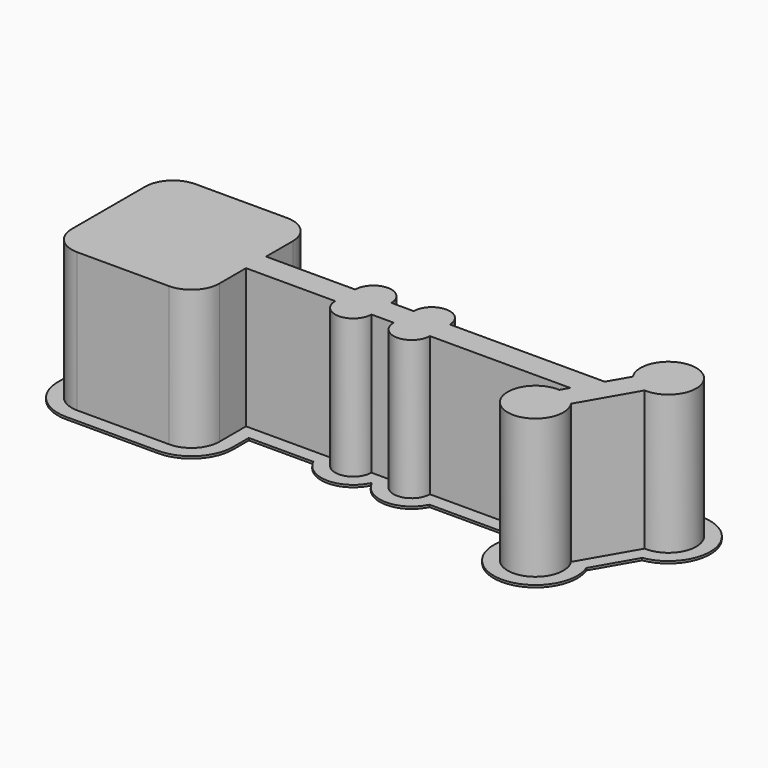
from build123d import *

# Parameters (mm, degrees)
F1_DEPTH = 0.4
F3_DEPTH = 25


with BuildPart() as f1:
    # F0 (on Top) → F1 (new body)
    with BuildSketch(Plane.XY):
        with BuildLine():
            Line((27.3219212057, 4.75), (15.75, 4.75))
            Line((15.75, 4.75), (15.75, 8.25))
            ThreePointArc((15.75, 8.25), (13.5533008589, 13.5533008589), (8.25, 15.75))
            Line((8.25, 15.75), (-8.25, 15.75))
            ThreePointArc((-8.25, 15.75), (-13.5533008589, 13.5533008589), (-15.75, 8.25))
            Line((-15.75, 8.25), (-15.75, -8.25))
            ThreePointArc((-15.75, -8.25), (-13.5533008589, -13.5533008589), (-8.25, -15.75))
            Line((-8.25, -15.75), (8.25, -15.75))
            ThreePointArc((8.25, -15.75), (13.5533008589, -13.5533008589), (15.75, -8.25))
            Line((15.75, -8.25), (15.75, -4.75))
            Line((15.75, -4.75), (27.3219212057, -4.75))
            ThreePointArc((27.3219212057, -4.75), (32.5, -8), (37.6780787943, -4.75))
            Line((37.6780787943, -4.75), (37.75, -4.75))
            Line((37.75, -4.75), (37.8219212057, -4.75))
            ThreePointArc((37.8219212057, -4.75), (43, -8), (48.1780787943, -4.75))
            Line((48.1780787943, -4.75), (63.9480829801, -4.75))
            ThreePointArc((63.9480829801, -4.75), (69.6474451199, -16.1274567319), (77.3637435709, -6.0087617221))
            Line((77.3637435709, -6.0087617221), (81.5596501878, 1.2587617221))
            ThreePointArc((81.5596501878, 1.2587617221), (84.0980762114, 15.1554445662), (73.3324088518, 6.0087617221))
            Line((73.3324088518, 6.0087617221), (72.6056624327, 4.75))
            Line((72.6056624327, 4.75), (48.1780787943, 4.75))
            ThreePointArc((48.1780787943, 4.75), (43, 8), (37.8219212057, 4.75))
            Line((37.8219212057, 4.75), (37.75, 4.75))
            Line((37.75, 4.75), (37.6780787943, 4.75))
            ThreePointArc((37.6780787943, 4.75), (32.5, 8), (27.3219212057, 4.75))
        make_face()
        with BuildLine():
            ThreePointArc((13.25, -8.25), (11.7855339059, -11.7855339059), (8.25, -13.25))
            Line((8.25, -13.25), (4.5, -13.25))
            Line((4.5, -13.25), (-4.5, -13.25))
            Line((-4.5, -13.25), (-8.25, -13.25))
            ThreePointArc((-8.25, -13.25), (-11.7855339059, -11.7855339059), (-13.25, -8.25))
            Line((-13.25, -8.25), (-13.25, -4.5))
            Line((-13.25, -4.5), (-13.25, 4.5))
            Line((-13.25, 4.5), (-13.25, 8.25))
            ThreePointArc((-13.25, 8.25), (-11.7855339059, 11.7855339059), (-8.25, 13.25))
            Line((-8.25, 13.25), (-4.5, 13.25))
            Line((-4.5, 13.25), (4.5, 13.25))
            Line((4.5, 13.25), (8.25, 13.25))
            ThreePointArc((8.25, 13.25), (11.7855339059, 11.7855339059), (13.25, 8.25))
            Line((13.25, 8.25), (13.25, 4.5))
            Line((13.25, 4.5), (13.25, 2.25))
            Line((13.25, 2.25), (29.25, 2.25))
            ThreePointArc((29.25, 2.25), (32.5, 5.5), (35.75, 2.25))
            Line((35.75, 2.25), (37.75, 2.25))
            Line((37.75, 2.25), (39.75, 2.25))
            ThreePointArc((39.75, 2.25), (43, 5.5), (46.25, 2.25))
            Line((46.25, 2.25), (74.0490381057, 2.25))
            Line((74.0490381057, 2.25), (76.1669476654, 5.9183269633))
            ThreePointArc((76.1669476654, 5.9183269633), (82.8480762114, 12.9903810568), (80.0640619824, 3.6683269633))
            Line((80.0640619824, 3.6683269633), (74.5292047573, -5.9183269633))
            ThreePointArc((74.5292047573, -5.9183269633), (67.8480762114, -12.9903810568), (70.6320904403, -3.6683269633))
            Line((70.6320904403, -3.6683269633), (71.4509618943, -2.25))
            Line((71.4509618943, -2.25), (46.25, -2.25))
            ThreePointArc((46.25, -2.25), (43, -5.5), (39.75, -2.25))
            Line((39.75, -2.25), (37.75, -2.25))
            Line((37.75, -2.25), (35.75, -2.25))
            ThreePointArc((35.75, -2.25), (32.5, -5.5), (29.25, -2.25))
            Line((29.25, -2.25), (13.25, -2.25))
            Line((13.25, -2.25), (13.25, -4.5))
            Line((13.25, -4.5), (13.25, -8.25))
        make_face(mode=Mode.SUBTRACT)
    extrude(amount=F1_DEPTH)


with BuildPart() as f3:
    # F2 (on face) → F3 (new body)
    with BuildSketch(Plane.XY.offset(0.4)):
        with BuildLine():
            ThreePointArc((8.25, -13.25), (11.7855339059, -11.7855339059), (13.25, -8.25))
            Line((13.25, -8.25), (13.25, -2.25))
            Line((13.25, -2.25), (29.25, -2.25))
            ThreePointArc((29.25, -2.25), (32.5, -5.5), (35.75, -2.25))
            Line((35.75, -2.25), (39.75, -2.25))
            ThreePointArc((39.75, -2.25), (43, -5.5), (46.25, -2.25))
            Line((46.25, -2.25), (71.4509618943, -2.25))
            Line((71.4509618943, -2.25), (70.6320904403, -3.6683269633))
            ThreePointArc((70.6320904403, -3.6683269633), (67.8480762114, -12.9903810568), (74.5292047573, -5.9183269633))
            Line((74.5292047573, -5.9183269633), (80.0640619824, 3.6683269633))
            ThreePointArc((80.0640619824, 3.6683269633), (82.8480762114, 12.9903810568), (76.1669476654, 5.9183269633))
            Line((76.1669476654, 5.9183269633), (74.0490381057, 2.25))
            Line((74.0490381057, 2.25), (46.25, 2.25))
            ThreePointArc((46.25, 2.25), (43, 5.5), (39.75, 2.25))
            Line((39.75, 2.25), (35.75, 2.25))
            ThreePointArc((35.75, 2.25), (32.5, 5.5), (29.25, 2.25))
            Line((29.25, 2.25), (13.25, 2.25))
            Line((13.25, 2.25), (13.25, 8.25))
            ThreePointArc((13.25, 8.25), (11.7855339059, 11.7855339059), (8.25, 13.25))
            Line((8.25, 13.25), (-8.25, 13.25))
            ThreePointArc((-8.25, 13.25), (-11.7855339059, 11.7855339059), (-13.25, 8.25))
            Line((-13.25, 8.25), (-13.25, -8.25))
            ThreePointArc((-13.25, -8.25), (-11.7855339059, -11.7855339059), (-8.25, -13.25))
            Line((-8.25, -13.25), (8.25, -13.25))
        make_face()
    extrude(amount=F3_DEPTH)


solid = Compound([f1.part, f3.part])
